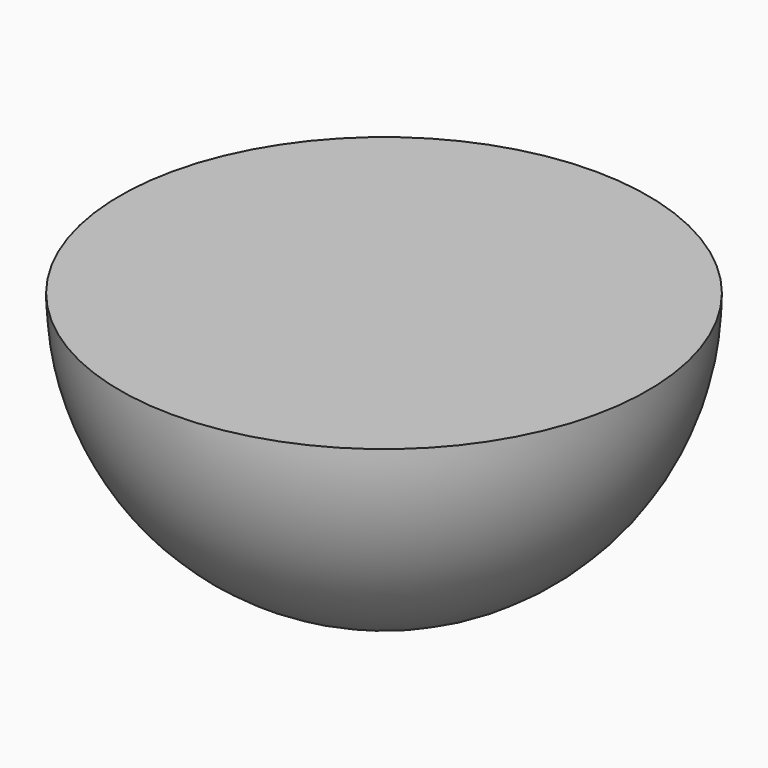
from build123d import *

# Parameters (mm, degrees)
F1_ANGLE = 180


with BuildPart() as f1:
    # F0 (on Top) → F1 (revolve)
    with BuildSketch(Plane.XY):
        with BuildLine():
            Line((0, -76.112412), (0, 76.112412))
            ThreePointArc((0, 76.112412), (-76.112412, 0), (0, -76.112412))
        make_face()
    revolve(axis=Axis((0, 0, 0), (0, -1, 0)), revolution_arc=F1_ANGLE)


solid = f1.part
